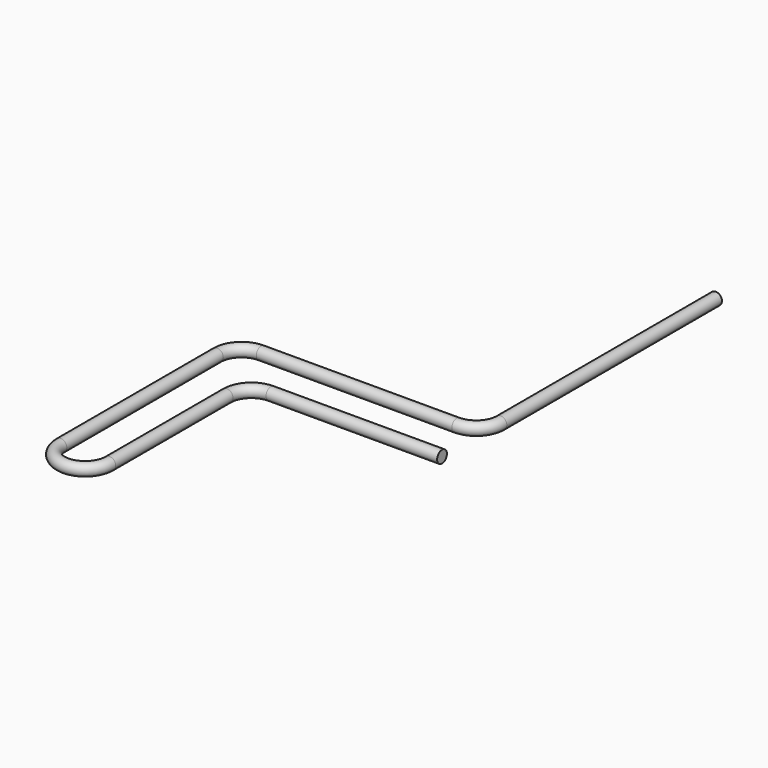
from build123d import *

# Parameters (mm, degrees)
F2_R = 3.175


with BuildPart() as f3:
    # F3: sweep along a path in F0
    with BuildLine(Plane.XY) as f3_path:
        Line((127, 152.4), (127, 12.7))
        ThreePointArc((127, 12.7), (123.2802561211, 3.7197438789), (114.3, 0))
        Line((114.3, 0), (12.7, 0))
        ThreePointArc((12.7, 0), (3.7197438789, -3.7197438789), (0, -12.7))
        Line((0, -12.7), (0, -114.3))
        ThreePointArc((0, -114.3), (12.7, -127), (25.4, -114.3))
        Line((25.4, -114.3), (25.4, -38.1))
        ThreePointArc((25.4, -38.1), (29.1197438789, -29.1197438789), (38.1, -25.4))
        Line((38.1, -25.4), (127, -25.4))
    # F2 (on offset) → F3 (sweep)
    with BuildSketch(Plane.XZ.offset(-152.4)):
        with Locations((127, 0)):
            Circle(F2_R)
    sweep(path=f3_path.line)


solid = f3.part
